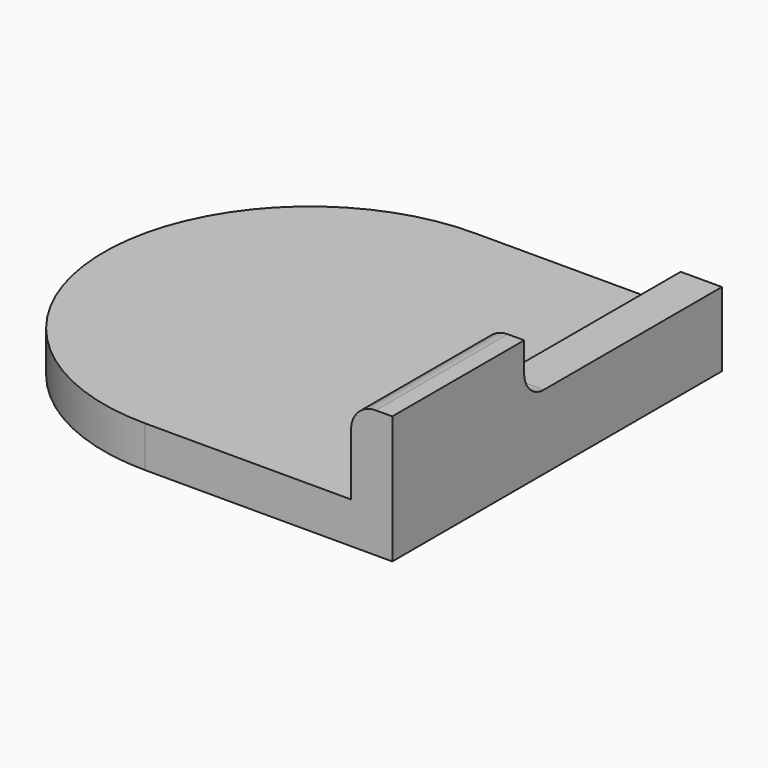
from build123d import *

# Parameters (mm, degrees)
F1_DEPTH = 5
F2_W     = 5
F2_H     = 50
F3_DEPTH = 4
F4_W     = 5
F4_H     = 20
F5_DEPTH = 10.5
F6_R     = 3


with BuildPart() as f1:
    # F0 (on Top) → F1 (new body)
    with BuildSketch(Plane.XY):
        with BuildLine():
            Line((30, 25), (0, 25))
            ThreePointArc((0, 25), (-25, 0), (0, -25))
            Line((0, -25), (30, -25))
            Line((30, -25), (30, 25))
        make_face()
    extrude(amount=F1_DEPTH)

    # F2 (on face) → F3 (join)
    with BuildSketch(Plane.XY.offset(5)):
        with Locations((27.5, 0)):
            Rectangle(F2_W, F2_H)
    extrude(amount=F3_DEPTH)

    # F4 (on face) → F5 (join)
    with BuildSketch(Plane.XY.offset(5)):
        with Locations((27.5, -15)):
            Rectangle(F4_W, F4_H)
    extrude(amount=F5_DEPTH)

    # F6
    f6_edges = [f1.edges().sort_by_distance(p)[0] for p in [
        (27.5, -5, 9),
        (25, -15, 15.5),
    ]]
    fillet(f6_edges, radius=F6_R)


solid = f1.part
